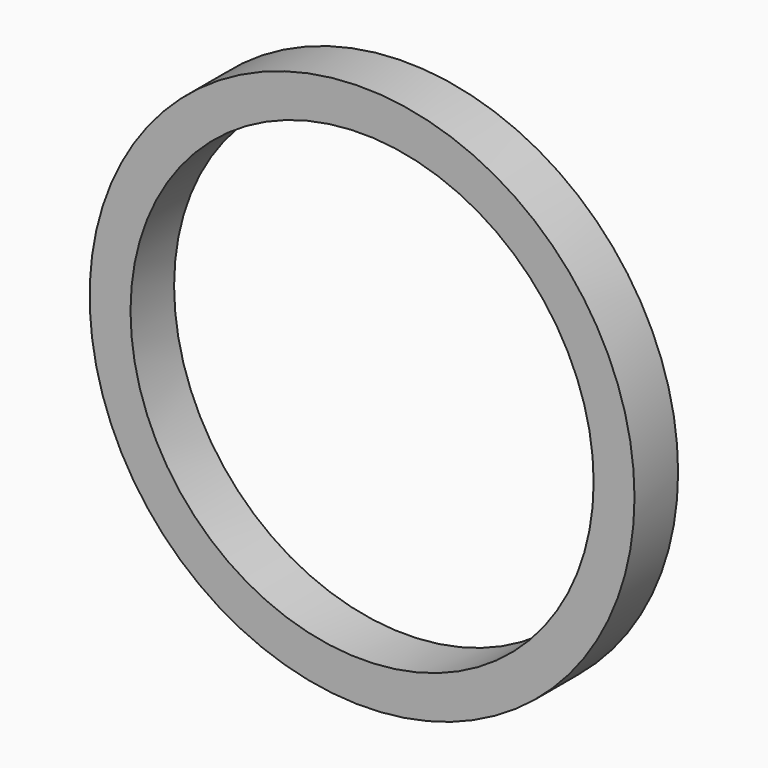
from build123d import *

# Parameters (mm, degrees)
F1_R     = 127
F1_R_2   = 107.95
F2_DEPTH = 25.4


with BuildPart() as f2:
    # F1 (on face) → F2 (new body)
    with BuildSketch(Plane.XZ):
        Circle(F1_R)
        Circle(F1_R_2, mode=Mode.SUBTRACT)
    extrude(amount=F2_DEPTH)


solid = f2.part
